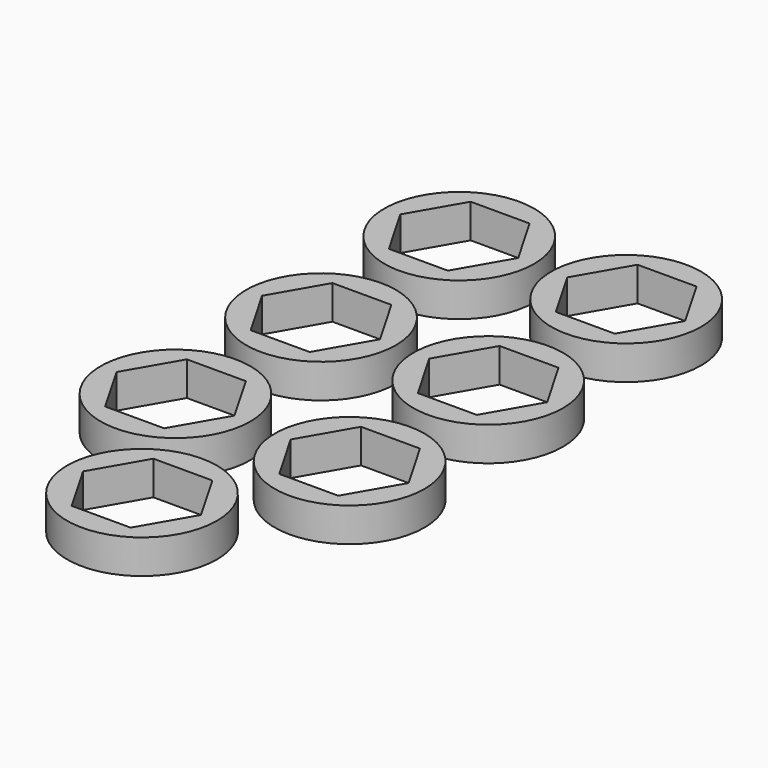
from build123d import *

# Parameters (mm, degrees)
F0_R     = 11
F1_DEPTH = 5


with BuildPart() as f1:
    # F0 (on Top) → F1 (new body)
    with BuildSketch(Plane.XY):
        Circle(F0_R)
        Polygon((-8.660254, 0), (-4.330127, 7.5), (4.330127, 7.5), (8.660254, 0), (4.330127, -7.5), (-4.330127, -7.5), align=None, mode=Mode.SUBTRACT)
        with Locations((-0.245953, 25.637358)):
            Circle(F0_R)
        Polygon((-8.906207, 25.637358), (-4.57608, 33.137358), (4.084174, 33.137358), (8.414301, 25.637358), (4.084174, 18.137358), (-4.57608, 18.137358), align=None, mode=Mode.SUBTRACT)
        with Locations((0.130127, -25.600002)):
            Circle(F0_R)
        Polygon((-8.530127, -25.600002), (-4.2, -18.100002), (4.460254, -18.100002), (8.790381, -25.600002), (4.460254, -33.100002), (-4.2, -33.100002), align=None, mode=Mode.SUBTRACT)
        with Locations((-24.96987, 25.899999)):
            Circle(F0_R)
        Polygon((-33.630124, 25.899999), (-29.299997, 33.399999), (-20.639743, 33.399999), (-16.309616, 25.899999), (-20.639743, 18.399999), (-29.299997, 18.399999), align=None, mode=Mode.SUBTRACT)
        with Locations((-24.72704, 0.222328)):
            Circle(F0_R)
        Polygon((-33.387294, 0.222328), (-29.057167, 7.722328), (-20.396913, 7.722328), (-16.066786, 0.222328), (-20.396913, -7.277672), (-29.057167, -7.277672), align=None, mode=Mode.SUBTRACT)
        with Locations((-25.923064, -25.00039)):
            Circle(F0_R)
        Polygon((-34.583318, -25.00039), (-30.253191, -17.50039), (-21.592937, -17.50039), (-17.262809, -25.00039), (-21.592937, -32.50039), (-30.253191, -32.50039), align=None, mode=Mode.SUBTRACT)
        with Locations((-13.509253, -46.664544)):
            Circle(F0_R)
        Polygon((-22.169507, -46.664544), (-17.83938, -39.164544), (-9.179126, -39.164544), (-4.848999, -46.664544), (-9.179126, -54.164544), (-17.83938, -54.164544), align=None, mode=Mode.SUBTRACT)
    extrude(amount=F1_DEPTH)


solid = f1.part
